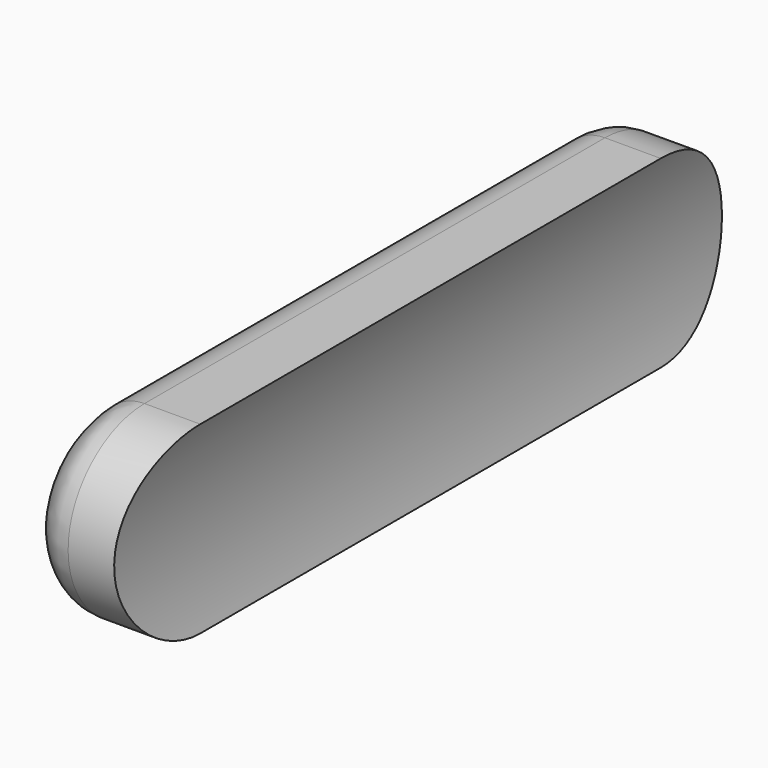
from build123d import *

# Parameters (mm, degrees)
F1_DEPTH = 12.7
F3_DEPTH = 25.4
F4_R     = 0.508


with BuildPart() as f1:
    # F0 (on Front) → F1 (new body)
    with BuildSketch(Plane.XZ):
        with BuildLine():
            ThreePointArc((-3.672035, -1.016), (-3.81, 0), (-3.672035, 1.016))
            Line((-3.672035, 1.016), (-4.717841, 1.016))
            ThreePointArc((-4.717841, 1.016), (-4.826, 0), (-4.717841, -1.016))
            Line((-4.717841, -1.016), (-3.672035, -1.016))
        make_face()
    extrude(amount=F1_DEPTH)

    # F2 (on Right) → F3 (cut)
    with BuildSketch(Plane.YZ):
        with BuildLine():
            Line((-12.7, 1.016), (-12.7, 0))
            Line((-12.7, 0), (-12.7, -1.016))
            Line((-12.7, -1.016), (-9.525, -1.016))
            ThreePointArc((-9.525, -1.016), (-10.541, 0), (-9.525, 1.016))
            Line((-9.525, 1.016), (-12.7, 1.016))
        make_face()
        with BuildLine():
            ThreePointArc((-3.175, 1.016), (-2.159, 0), (-3.175, -1.016))
            Line((-3.175, -1.016), (0, -1.016))
            Line((0, -1.016), (0, 1.016))
            Line((0, 1.016), (-3.175, 1.016))
        make_face()
    extrude(amount=-F3_DEPTH, mode=Mode.SUBTRACT)

    # F4
    f4_edges = [f1.edges().sort_by_distance(p)[0] for p in [
        (-4.717841, -6.35, 1.016),
    ]]
    fillet(f4_edges, radius=F4_R)


solid = f1.part
